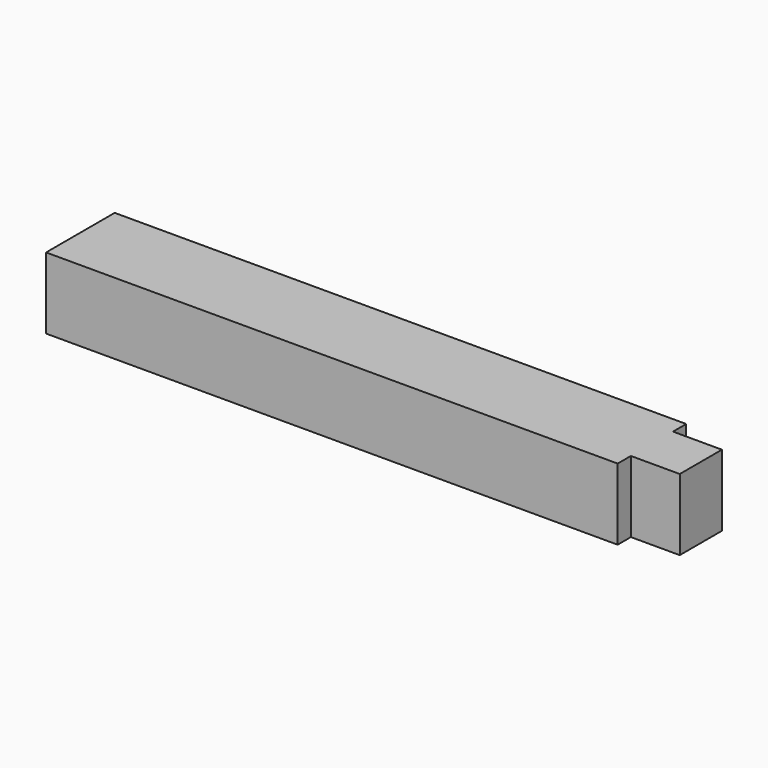
from build123d import *

# Parameters (mm, degrees)
F1_DEPTH = 25
F2_R     = 5
F3_DEPTH = 150


with BuildPart() as f1:
    # F0 (on Top) → F1 (new body)
    with BuildSketch(Plane.XY):
        Polygon((31.593338, 4.139638), (-99.612067, 4.139638), (-99.612067, -25.860362), (31.593338, -25.860362), (81.593338, -25.860362), (100.387933, -25.860362), (100.387933, -20.079653), (117.500933, -20.079653), (117.500933, -1.641072), (100.387933, -1.641072), (100.387933, 4.139638), (81.593338, 4.139638), align=None)
    extrude(amount=-F1_DEPTH)

    # F2 (on face) → F3 (cut)
    with BuildSketch(Plane(origin=(-99.612067, 0, 0), x_dir=(0, -1, 0), z_dir=(-1, 0, 0))):
        with Locations((10.860362, -8.104307)):
            Circle(F2_R)
    extrude(amount=-F3_DEPTH, mode=Mode.SUBTRACT)


solid = f1.part
